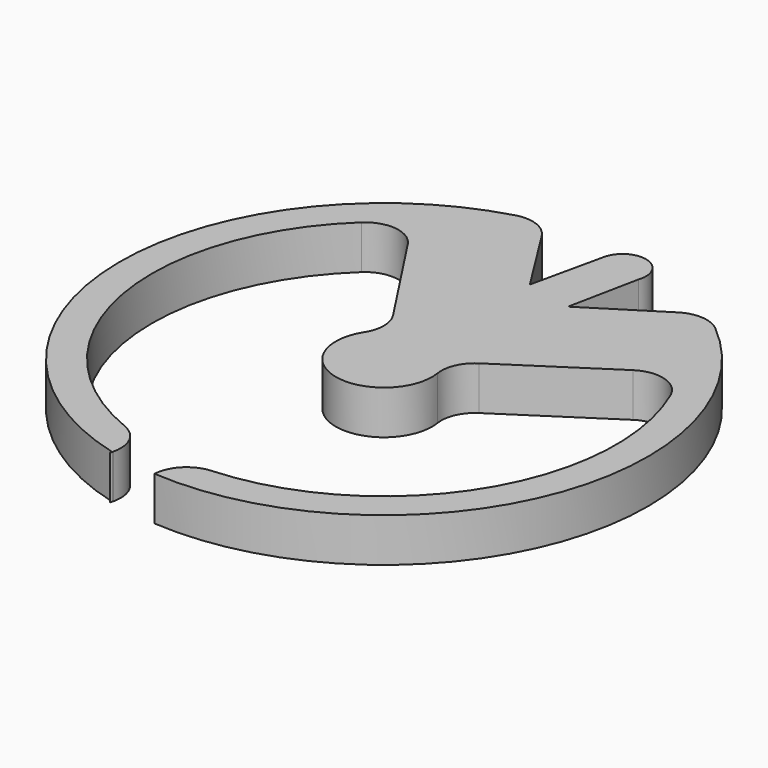
from build123d import *

# Parameters (mm, degrees)
F1_DEPTH = 5


with BuildPart() as f1:
    # F0 (on Top) → F1 (new body)
    with BuildSketch(Plane.XY):
        with BuildLine():
            Line((-163.381988, 46.536467), (-163.385242, 46.491124))
            ThreePointArc((-163.385242, 46.491124), (-133.281303, 65.256861), (-141.876481, 99.673761))
            ThreePointArc((-141.876481, 99.673761), (-142.337813, 100.005423), (-142.842853, 100.265736))
            ThreePointArc((-142.842853, 100.265736), (-133.210619, 65.833675), (-163.373536, 46.636144))
            ThreePointArc((-163.373536, 46.636144), (-163.378085, 46.586333), (-163.381988, 46.536467))
        make_face()
        with BuildLine():
            ThreePointArc((-168.9444, 47.418202), (-168.947955, 47.419144), (-168.951509, 47.420086))
            ThreePointArc((-168.951509, 47.420086), (-168.985109, 47.305972), (-169.022211, 47.192949))
            Line((-169.022211, 47.192949), (-168.9444, 47.418202))
        make_face()
        with BuildLine():
            ThreePointArc((-163.373536, 46.636144), (-133.210619, 65.833675), (-142.842853, 100.265736))
            ThreePointArc((-142.842853, 100.265736), (-144.661973, 100.561266), (-146.410639, 99.979284))
            Line((-146.410639, 99.979284), (-154.74582, 94.725046))
            Line((-154.74582, 94.725046), (-153.122208, 102.747463))
            ThreePointArc((-153.122208, 102.747463), (-154.850541, 106.181119), (-158.214688, 104.321107))
            Line((-158.214688, 104.321107), (-158.264877, 104.093805))
            Line((-158.264877, 104.093805), (-160.067137, 95.931475))
            Line((-160.067137, 95.931475), (-165.100747, 103.916657))
            ThreePointArc((-165.100747, 103.916657), (-166.467338, 105.218717), (-168.288042, 105.716684))
            ThreePointArc((-168.288042, 105.716684), (-191.226027, 76.882824), (-168.915222, 47.560978))
            ThreePointArc((-168.915222, 47.560978), (-169.238771, 50.218734), (-171.214242, 52.025904))
            ThreePointArc((-171.214242, 52.025904), (-187.277826, 71.762209), (-179.298415, 95.926014))
            ThreePointArc((-179.298415, 95.926014), (-176.203345, 96.935434), (-173.437857, 95.217742))
            Line((-173.437857, 95.217742), (-165.89632, 83.693394))
            ThreePointArc((-165.89632, 83.693394), (-165.266574, 81.605971), (-165.868951, 79.510486))
            ThreePointArc((-165.868951, 79.510486), (-162.352429, 71.175522), (-155.793288, 77.405707))
            ThreePointArc((-155.793288, 77.405707), (-155.506415, 79.567101), (-154.093685, 81.227856))
            Line((-154.093685, 81.227856), (-142.569337, 88.769393))
            ThreePointArc((-142.569337, 88.769393), (-139.347483, 89.236346), (-136.915339, 87.072306))
            ThreePointArc((-136.915339, 87.072306), (-138.693312, 62.637539), (-159.749042, 50.112553))
            ThreePointArc((-159.749042, 50.112553), (-162.204357, 49.044809), (-163.373536, 46.636144))
        make_face()
        with BuildLine():
            Line((-158.264877, 104.093805), (-158.214688, 104.321107))
            ThreePointArc((-158.214688, 104.321107), (-158.242264, 104.208004), (-158.264877, 104.093805))
        make_face()
        with BuildLine():
            ThreePointArc((-168.915222, 47.560978), (-191.226027, 76.882824), (-168.288042, 105.716684))
            ThreePointArc((-168.288042, 105.716684), (-168.855397, 105.686103), (-169.412109, 105.572529))
            ThreePointArc((-169.412109, 105.572529), (-191.372313, 76.320546), (-168.951509, 47.420086))
            ThreePointArc((-168.951509, 47.420086), (-168.932701, 47.490361), (-168.915222, 47.560978))
        make_face()
    extrude(amount=F1_DEPTH)


solid = f1.part
